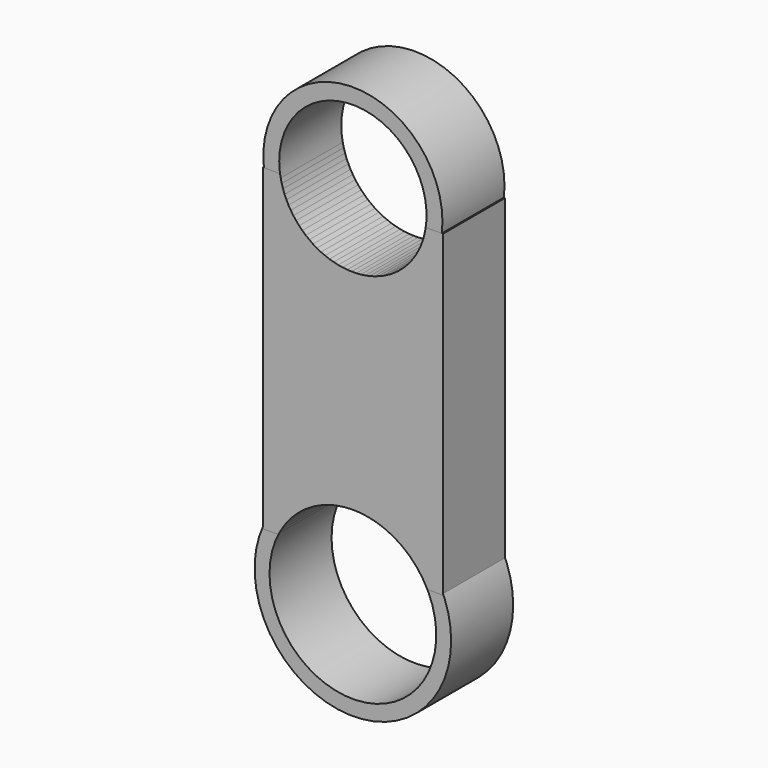
from build123d import *

# Parameters (mm, degrees)
F0_R     = 29.3360795895
F3_DEPTH = 25.4
F0_R_2   = 32.1864241751
F1_W     = 59.0107068419
F1_H     = 104.2327992618
F5_D     = 54.61
F5_2_D   = 54.61
F6_D     = 48.26
F6_2_D   = 48.26


with BuildPart() as f3:
    # F0 (on Front) → F3 (new body)
    with BuildSketch(Plane.XZ):
        with Locations((0, 45.5383509398)):
            Circle(F0_R)
    extrude(amount=F3_DEPTH)

    # F6 (through all)
    with Locations(Plane(origin=(0, 0, 0), x_dir=(1, 0, 0), z_dir=(0, 1, 0))):
        with Locations((0, -45.6358604133)):
            Hole(F6_D / 2)


with BuildPart() as f3b:
    # F0 (on Front) → F3, piece 2 (new body)
    with BuildSketch(Plane.XZ):
        with Locations((0, -74.354544282)):
            Circle(F0_R_2)
    extrude(amount=F3_DEPTH)

    # F5 (through all)
    with Locations(Plane(origin=(0, 0, 0), x_dir=(1, 0, 0), z_dir=(0, 1, 0))):
        with Locations((0, 74.289880693)):
            Hole(F5_D / 2)


with BuildPart() as f3c:
    # F1 (on Front) → F3, piece 3 (new body)
    with BuildSketch(Plane.XZ):
        with Locations((0, -9.9603179842)):
            Rectangle(F1_W, F1_H)
    extrude(amount=F3_DEPTH)

    # F5#2 (through all)
    with Locations(Plane(origin=(0, 0, 0), x_dir=(1, 0, 0), z_dir=(0, 1, 0))):
        with Locations((0, 74.289880693)):
            Hole(F5_2_D / 2)

    # F6#2 (through all)
    with Locations(Plane(origin=(0, 0, 0), x_dir=(1, 0, 0), z_dir=(0, 1, 0))):
        with Locations((0, -45.6358604133)):
            Hole(F6_2_D / 2)


solid = Compound([f3.part, f3b.part, f3c.part])
